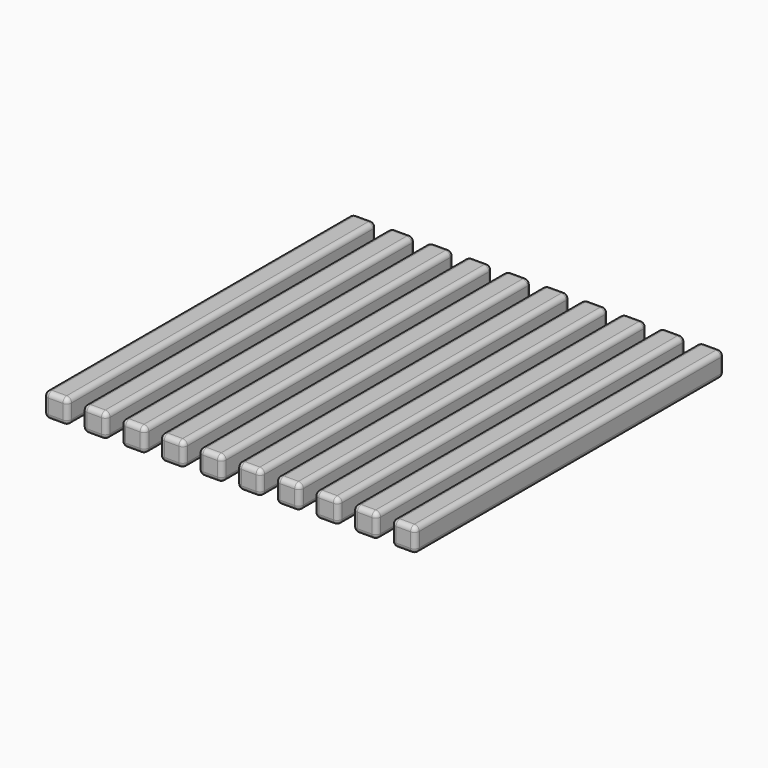
from build123d import *

# Parameters (mm, degrees)
F0_W     = 6.35
F0_H     = 101.6
F1_DEPTH = 6.35
F2_R     = 1.27


with BuildPart() as f1:
    # F0 (on Top) → F1 (new body)
    with BuildSketch(Plane.XY):
        with Locations((3.175, 50.8)):
            Rectangle(F0_W, F0_H)
        with Locations((13.335, 50.8)):
            Rectangle(F0_W, F0_H)
        with Locations((23.495, 50.8)):
            Rectangle(F0_W, F0_H)
        with Locations((33.655, 50.8)):
            Rectangle(F0_W, F0_H)
        with Locations((43.815, 50.8)):
            Rectangle(F0_W, F0_H)
        with Locations((53.975, 50.8)):
            Rectangle(F0_W, F0_H)
        with Locations((64.135, 50.8)):
            Rectangle(F0_W, F0_H)
        with Locations((74.295, 50.8)):
            Rectangle(F0_W, F0_H)
        with Locations((84.455, 50.8)):
            Rectangle(F0_W, F0_H)
        with Locations((94.615, 50.8)):
            Rectangle(F0_W, F0_H)
    extrude(amount=F1_DEPTH)

    # F2
    f2_edges = [f1.edges().sort_by_distance(p)[0] for p in [
        (97.79, 50.8, 0),
        (97.79, 50.8, 6.35),
        (91.44, 50.8, 6.35),
        (97.79, 0, 3.175),
        (97.79, 101.6, 3.175),
        (91.44, 0, 3.175),
        (94.615, 0, 6.35),
        (94.615, 0, 0),
        (94.615, 101.6, 0),
        (91.44, 50.8, 0),
        (94.615, 101.6, 6.35),
        (91.44, 101.6, 3.175),
        (0, 101.6, 3.175),
        (6.35, 101.6, 3.175),
        (3.175, 101.6, 0),
        (3.175, 101.6, 6.35),
        (16.51, 0, 3.175),
        (16.51, 101.6, 3.175),
        (16.51, 50.8, 0),
        (16.51, 50.8, 6.35),
        (10.16, 101.6, 3.175),
        (13.335, 101.6, 0),
        (13.335, 101.6, 6.35),
        (20.32, 101.6, 3.175),
        (20.32, 0, 3.175),
        (20.32, 50.8, 0),
        (20.32, 50.8, 6.35),
        (23.495, 0, 0),
        (26.67, 50.8, 0),
        (23.495, 101.6, 0),
        (23.495, 0, 6.35),
        (26.67, 50.8, 6.35),
        (23.495, 101.6, 6.35),
        (26.67, 0, 3.175),
        (26.67, 101.6, 3.175),
        (36.83, 101.6, 3.175),
        (30.48, 0, 3.175),
        (36.83, 0, 3.175),
        (36.83, 50.8, 6.35),
        (36.83, 50.8, 0),
        (30.48, 50.8, 6.35),
        (33.655, 0, 0),
        (33.655, 101.6, 0),
        (30.48, 50.8, 0),
        (33.655, 0, 6.35),
        (33.655, 101.6, 6.35),
        (30.48, 101.6, 3.175),
        (40.64, 0, 3.175),
        (46.99, 0, 3.175),
        (43.815, 0, 0),
        (43.815, 0, 6.35),
        (46.99, 101.6, 3.175),
        (46.99, 50.8, 0),
        (46.99, 50.8, 6.35),
        (43.815, 101.6, 0),
        (40.64, 50.8, 0),
        (43.815, 101.6, 6.35),
        (40.64, 50.8, 6.35),
        (40.64, 101.6, 3.175),
        (53.975, 0, 0),
        (57.15, 50.8, 0),
        (53.975, 101.6, 0),
        (50.8, 50.8, 0),
        (57.15, 0, 3.175),
        (57.15, 101.6, 3.175),
        (57.15, 50.8, 6.35),
        (53.975, 0, 6.35),
        (53.975, 101.6, 6.35),
        (50.8, 50.8, 6.35),
        (50.8, 101.6, 3.175),
        (50.8, 0, 3.175),
        (64.135, 101.6, 6.35),
        (67.31, 0, 3.175),
        (67.31, 101.6, 3.175),
        (67.31, 50.8, 0),
        (67.31, 50.8, 6.35),
        (64.135, 0, 0),
        (64.135, 101.6, 0),
        (60.96, 50.8, 0),
        (64.135, 0, 6.35),
        (60.96, 50.8, 6.35),
        (60.96, 101.6, 3.175),
        (60.96, 0, 3.175),
        (71.12, 0, 3.175),
        (77.47, 0, 3.175),
        (74.295, 0, 0),
        (74.295, 0, 6.35),
        (77.47, 101.6, 3.175),
        (71.12, 101.6, 3.175),
        (71.12, 50.8, 0),
        (71.12, 50.8, 6.35),
        (74.295, 101.6, 0),
        (74.295, 101.6, 6.35),
        (77.47, 50.8, 6.35),
        (77.47, 50.8, 0),
        (84.455, 101.6, 6.35),
        (87.63, 0, 3.175),
        (87.63, 101.6, 3.175),
        (87.63, 50.8, 0),
        (87.63, 50.8, 6.35),
        (84.455, 0, 0),
        (84.455, 101.6, 0),
        (81.28, 50.8, 0),
        (81.28, 0, 3.175),
        (84.455, 0, 6.35),
        (81.28, 50.8, 6.35),
        (81.28, 101.6, 3.175),
        (0, 0, 3.175),
        (6.35, 0, 3.175),
        (3.175, 0, 0),
        (3.175, 0, 6.35),
        (0, 50.8, 6.35),
        (6.35, 50.8, 6.35),
        (10.16, 0, 3.175),
        (13.335, 0, 0),
        (10.16, 50.8, 0),
        (13.335, 0, 6.35),
        (10.16, 50.8, 6.35),
        (0, 50.8, 0),
        (6.35, 50.8, 0),
    ]]
    fillet(f2_edges, radius=F2_R)


solid = f1.part
